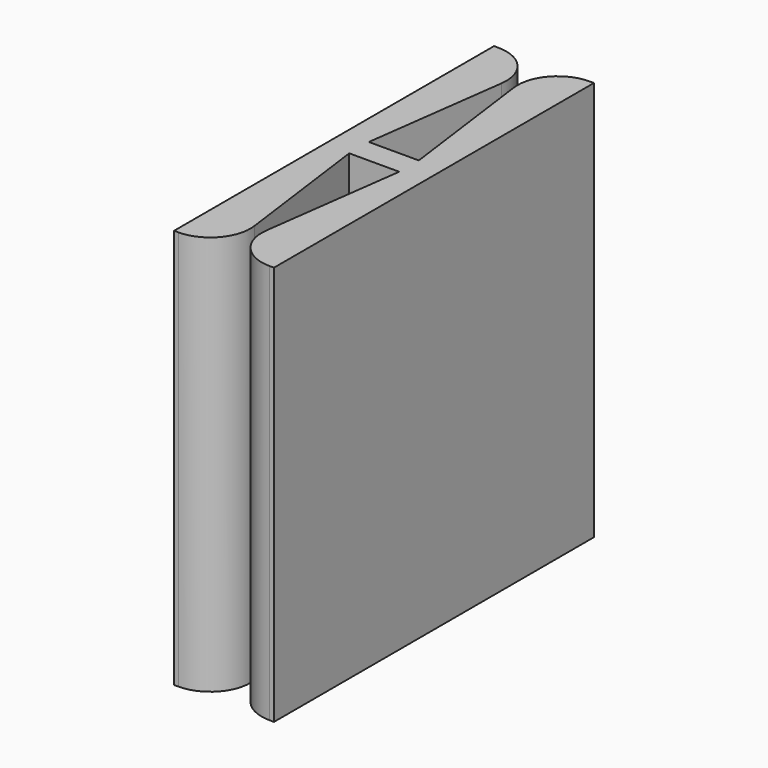
from build123d import *

# Parameters (mm, degrees)
F1_DEPTH = 25.4


with BuildPart() as f1:
    # F0 (on Top) → F1 (new body)
    with BuildSketch(Plane.XY):
        with BuildLine():
            Line((-19.949808, -14.713609), (-20.223535, -14.713609))
            Line((-20.223535, -14.713609), (-20.223535, -28.192073))
            Line((-20.223535, -28.192073), (-18.638604, -28.192073))
            Line((-18.638604, -28.192073), (-15.463604, -28.192073))
            Line((-15.463604, -28.192073), (-13.878673, -28.192073))
            Line((-13.878673, -28.192073), (-13.878673, -14.713609))
            Line((-13.878673, -14.713609), (-14.1524, -14.713609))
            ThreePointArc((-14.1524, -14.713609), (-16.063492, -15.580491), (-16.670104, -17.589415))
            Line((-16.670104, -17.589415), (-15.463604, -26.635145))
            Line((-15.463604, -26.635145), (-18.638604, -26.635145))
            Line((-18.638604, -26.635145), (-17.432104, -17.589415))
            ThreePointArc((-17.432104, -17.589415), (-18.038716, -15.580491), (-19.949808, -14.713609))
        make_face()
        with BuildLine():
            Line((-18.638604, -28.192073), (-20.223535, -28.192073))
            Line((-20.223535, -28.192073), (-20.223535, -40.113609))
            Line((-20.223535, -40.113609), (-19.949808, -40.113609))
            ThreePointArc((-19.949808, -40.113609), (-18.038716, -39.246728), (-17.432104, -37.237803))
            Line((-17.432104, -37.237803), (-18.638604, -28.192073))
        make_face()
        with BuildLine():
            Line((-13.878673, -28.192073), (-15.463604, -28.192073))
            Line((-15.463604, -28.192073), (-16.670104, -37.237803))
            ThreePointArc((-16.670104, -37.237803), (-16.063492, -39.246728), (-14.1524, -40.113609))
            Line((-14.1524, -40.113609), (-13.878673, -40.113609))
            Line((-13.878673, -40.113609), (-13.878673, -28.192073))
        make_face()
    extrude(amount=F1_DEPTH)


solid = f1.part
